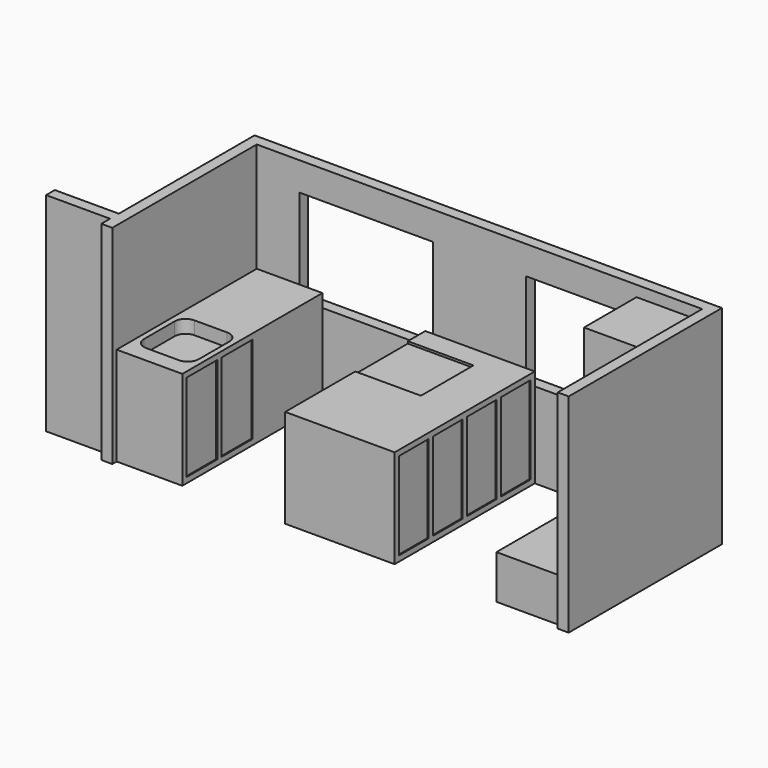
from build123d import *

# Parameters (mm, degrees)
F1_DEPTH  = 4826
F2_W      = 3098.8
F2_H      = 2184.4
F3_DEPTH  = 254
F0_W      = 1524
F0_H      = 4064
F0_H_2    = 1524
F4_DEPTH  = 2286
F0_H_3    = 2540
F5_DEPTH  = 4572
F6_W      = 2540
F6_H      = 3556
F6_W_2    = 3810
F6_H_2    = 889
F7_DEPTH  = 1524
F8_W      = 1524
F8_H      = 1524
F9_DEPTH  = 50.8
F11_DEPTH = 304.8
F12_W     = 889
F12_H     = 2032
F13_DEPTH = 25.4
F14_W     = 857.25
F14_H     = 2032
F15_DEPTH = 25.4
F16_W     = 889
F16_H     = 2032
F16_W_2   = 1397
F16_W_3   = 254
F17_DEPTH = 25.4


with BuildPart() as f1:
    # F0 (on Top) → F1 (new body)
    with BuildSketch(Plane.XY):
        Polygon((0, 127), (0, 0), (254, 0), (254, 4445), (-10591.8, 4445), (-10591.8, 508), (-12076.863289, 508), (-12076.863289, 254), (-10591.8, 254), (-10591.8, 0), (-10337.8, 0), (-10337.8, 127), (-10337.8, 4191), (-8813.8, 4191), (-6426.2, 4191), (-3886.2, 4191), (-1524, 4191), (0, 4191), (0, 2667), align=None)
    extrude(amount=F1_DEPTH)

    # F2 (on face) → F3 (cut)
    with BuildSketch(Plane(origin=(0, 4445, 0), x_dir=(-1, 0, 0), z_dir=(0, 1, 0))):
        with Locations((2540, 3073.4)):
            Rectangle(F2_W, F2_H)
        with Locations((7797.8, 3073.4)):
            Rectangle(F2_W, F2_H)
    extrude(amount=-F3_DEPTH, mode=Mode.SUBTRACT)

    # F0 (on Top) → F4 (join)
    with BuildSketch(Plane.XY):
        with Locations((-9575.8, 2159)):
            Rectangle(F0_W, F0_H)
        with Locations((-5664.2, 2921)):
            Rectangle(F0_W, F0_H_2)
        Polygon((-3886.2, 127), (-3886.2, 4191), (-6426.2, 4191), (-6426.2, 3683), (-4902.2, 3683), (-4902.2, 2159), (-6426.2, 2159), (-6426.2, 127), align=None)
    extrude(amount=F4_DEPTH)

    # F0 (on Top) → F5 (join)
    with BuildSketch(Plane.XY):
        with Locations((-762, 1397)):
            Rectangle(F0_W, F0_H_3)
        with Locations((-762, 3429)):
            Rectangle(F0_W, F0_H_2)
    extrude(amount=F5_DEPTH)

    # F6 (on face) → F7 (cut)
    with BuildSketch(Plane(origin=(-1524, 0, 0), x_dir=(0, -1, 0), z_dir=(-1, 0, 0))):
        with Locations((-1397, 2794)):
            Rectangle(F6_W, F6_H)
        with Locations((-2159, 444.5)):
            Rectangle(F6_W_2, F6_H_2)
    extrude(amount=-F7_DEPTH, mode=Mode.SUBTRACT)

    # F8 (on face) → F9 (cut)
    with BuildSketch(Plane.XY.offset(2286)):
        with Locations((-5664.2, 2921)):
            Rectangle(F8_W, F8_H)
    extrude(amount=-F9_DEPTH, mode=Mode.SUBTRACT)

    # F10 (on face) → F11 (cut)
    with BuildSketch(Plane.XY.offset(2286)):
        with BuildLine():
            ThreePointArc((-8940.8, 1651), (-9015.194878, 1830.605122), (-9194.8, 1905))
            Line((-9194.8, 1905), (-9956.8, 1905))
            ThreePointArc((-9956.8, 1905), (-10136.405122, 1830.605122), (-10210.8, 1651))
            Line((-10210.8, 1651), (-10210.8, 762))
            ThreePointArc((-10210.8, 762), (-10136.405122, 582.394878), (-9956.8, 508))
            Line((-9956.8, 508), (-9194.8, 508))
            ThreePointArc((-9194.8, 508), (-9015.194878, 582.394878), (-8940.8, 762))
            Line((-8940.8, 762), (-8940.8, 1651))
        make_face()
    extrude(amount=-F11_DEPTH, mode=Mode.SUBTRACT)

    # F12 (on face) → F13 (cut)
    with BuildSketch(Plane.YZ.offset(-8813.8)):
        with Locations((698.5, 1143)):
            Rectangle(F12_W, F12_H)
        with Locations((1714.5, 1143)):
            Rectangle(F12_W, F12_H)
    extrude(amount=-F13_DEPTH, mode=Mode.SUBTRACT)

    # F14 (on face) → F15 (cut)
    with BuildSketch(Plane.YZ.offset(-3886.2)):
        with Locations((682.625, 1143)):
            Rectangle(F14_W, F14_H)
        with Locations((1666.875, 1143)):
            Rectangle(F14_W, F14_H)
        with Locations((2651.125, 1143)):
            Rectangle(F14_W, F14_H)
        with Locations((3635.375, 1143)):
            Rectangle(F14_W, F14_H)
    extrude(amount=-F15_DEPTH, mode=Mode.SUBTRACT)

    # F16 (on face) → F17 (cut)
    with BuildSketch(Plane(origin=(-6426.2, 0, 0), x_dir=(0, -1, 0), z_dir=(-1, 0, 0))):
        with Locations((-698.5, 1143)):
            Rectangle(F16_W, F16_H)
        with Locations((-1714.5, 1143)):
            Rectangle(F16_W, F16_H)
        with Locations((-2984.5, 1143)):
            Rectangle(F16_W_2, F16_H)
        with Locations((-3937, 1143)):
            Rectangle(F16_W_3, F16_H)
    extrude(amount=-F17_DEPTH, mode=Mode.SUBTRACT)


solid = f1.part
